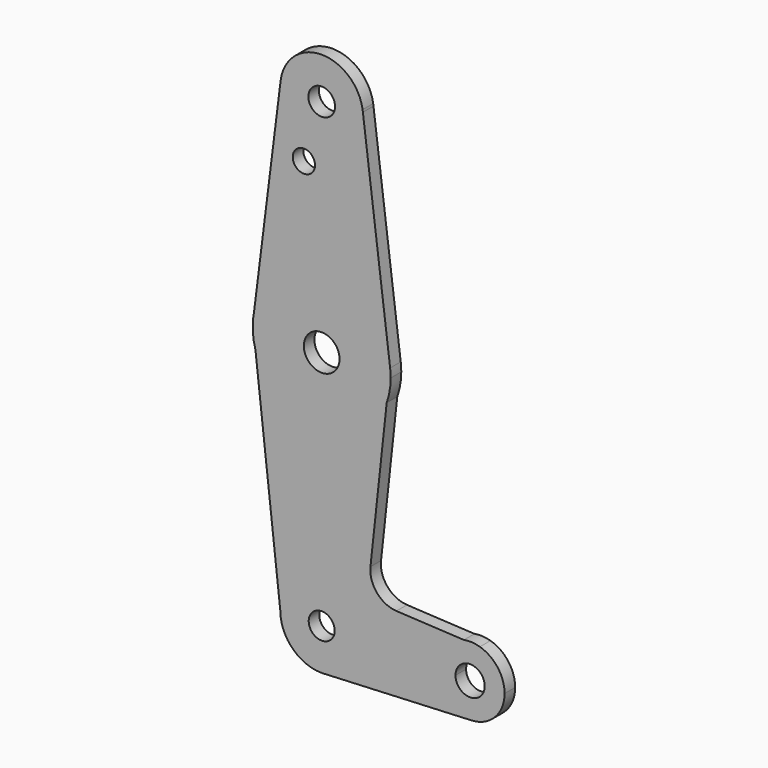
from build123d import *

# Parameters (mm, degrees)
F0_R     = 2.9857654251
F0_R_2   = 4.1099849919
F0_R_3   = 2.562679004
F0_R_4   = 3.0698593307
F1_DEPTH = 3.048


with BuildPart() as f1:
    # F0 (on Front) → F1 (new body)
    with BuildSketch(Plane.XZ):
        with BuildLine():
            ThreePointArc((0.8789084912, -9.4843631765), (7.0390776519, -6.4169315728), (9.525, 0))
            ThreePointArc((9.525, 0), (0, 9.525), (-9.525, 0))
            ThreePointArc((-9.525, 0), (-6.7351920908, -6.7351920908), (0, -9.525))
            Line((0, -9.525), (0.8789084912, -9.4843631765))
        make_face()
        Circle(F0_R, mode=Mode.SUBTRACT)
        with BuildLine():
            Line((26.2141472399, 0), (9.525, 0))
            ThreePointArc((9.525, 0), (7.0390776519, -6.4169315728), (0.8789084912, -9.4843631765))
            Line((0.8789084912, -9.4843631765), (34.5182503328, -7.9290294754))
            ThreePointArc((34.5182503328, -7.9290294754), (28.6701331151, -5.7408108443), (26.2141472399, 0))
        make_face()
        with BuildLine():
            ThreePointArc((-9.525, 0), (0, 9.525), (9.525, 0))
            Line((9.525, 0), (26.2141472399, 0))
            ThreePointArc((26.2141472399, 0), (28.0504698559, 5.0773556876), (32.7097795621, 7.8054419381))
            Line((32.7097795621, 7.8054419381), (17.2021943618, 8.620678039))
            ThreePointArc((17.2021943618, 8.620678039), (12.6997377229, 10.846417333), (11.2226010629, 15.6468442388))
            Line((11.2226010629, 15.6468442388), (14.9583679978, 50.0795296431))
            ThreePointArc((14.9583679978, 50.0795296431), (-0.4764040662, 39.5279613946), (-15.2503618955, 50.9864932041))
            Line((-15.2503618955, 50.9864932041), (-9.525, 0))
        make_face()
        with BuildLine():
            ThreePointArc((0, -9.525), (0.4399237114, -9.5148353705), (0.8789084912, -9.4843631765))
            Line((0.8789084912, -9.4843631765), (0, -9.525))
        make_face()
        with BuildLine():
            ThreePointArc((32.7097795621, 7.8054419381), (28.0504698559, 5.0773556876), (26.2141472399, 0))
            ThreePointArc((26.2141472399, 0), (28.6701331151, -5.7408108443), (34.5182503328, -7.9290294754))
            ThreePointArc((34.5182503328, -7.9290294754), (39.8924580842, -5.4815141248), (42.0891472399, 0))
            ThreePointArc((42.0891472399, 0), (40.5109606782, 4.75005672), (36.4039720983, 7.6112376774))
            Line((36.4039720983, 7.6112376774), (32.7097795621, 7.8054419381))
        make_face()
        with BuildLine():
            ThreePointArc((37.5149692495, 0), (34.1516472399, -3.3633220096), (30.7883252304, 0))
            ThreePointArc((30.7883252304, 0), (34.1516472399, 3.3633220096), (37.5149692495, 0))
        make_face(mode=Mode.SUBTRACT)
        with BuildLine():
            Line((-15.8484830578, 56.3129862946), (-15.2503618955, 50.9864932041))
            ThreePointArc((-15.2503618955, 50.9864932041), (-0.4764040662, 39.5279613946), (14.9583679978, 50.0795296431))
            Line((14.9583679978, 50.0795296431), (15.7504683605, 57.3803444616))
            ThreePointArc((15.7504683605, 57.3803444616), (0.5121804883, 71.2625469344), (-15.5896896566, 58.3920092375))
            ThreePointArc((-15.5896896566, 58.3920092375), (-15.7534205811, 57.3567716345), (-15.8484830578, 56.3129862946))
        make_face()
        with Locations((0, 55.3958114117)):
            Circle(F0_R_2, mode=Mode.SUBTRACT)
        with BuildLine():
            ThreePointArc((-15.8484830578, 56.3129862946), (-15.7758493121, 53.6243138866), (-15.2503618955, 50.9864932041))
            Line((-15.2503618955, 50.9864932041), (-15.8484830578, 56.3129862946))
        make_face()
        with BuildLine():
            ThreePointArc((36.4039720983, 7.6112376774), (34.5683474128, 7.9265545615), (32.7097795621, 7.8054419381))
            Line((32.7097795621, 7.8054419381), (36.4039720983, 7.6112376774))
        make_face()
        with BuildLine():
            Line((15.7504683605, 57.3803444616), (14.9583679978, 50.0795296431))
            ThreePointArc((14.9583679978, 50.0795296431), (15.6441637195, 52.6984485296), (15.875, 55.3958114117))
            ThreePointArc((15.875, 55.3958114117), (15.8438365023, 56.3900296417), (15.7504683605, 57.3803444616))
        make_face()
        with BuildLine():
            Line((-9.4511589715, 107.4033378583), (-15.5896896566, 58.3920092375))
            ThreePointArc((-15.5896896566, 58.3920092375), (0.5121804883, 71.2625469344), (15.7504683605, 57.3803444616))
            Line((15.7504683605, 57.3803444616), (9.4790140139, 107.1544428399))
            ThreePointArc((9.4790140139, 107.1544428399), (9.5134965571, 106.6875900341), (9.525, 106.2196068518))
            ThreePointArc((9.525, 106.2196068518), (-0.5930159343, 96.7130850325), (-9.4511589715, 107.4033378583))
        make_face()
        with Locations((-4.0977103636, 92.8361788392)):
            Circle(F0_R_3, mode=Mode.SUBTRACT)
        with BuildLine():
            ThreePointArc((9.4146417701, 107.6653403477), (-0.1322675418, 115.7436884505), (-9.4511589715, 107.4033378583))
            ThreePointArc((-9.4511589715, 107.4033378583), (-0.5930159343, 96.7130850325), (9.525, 106.2196068518))
            ThreePointArc((9.525, 106.2196068518), (9.5134965571, 106.6875900341), (9.4790140139, 107.1544428399))
            Line((9.4790140139, 107.1544428399), (9.4146417701, 107.6653403477))
        make_face()
        with Locations((0, 106.2196068518)):
            Circle(F0_R_4, mode=Mode.SUBTRACT)
        with BuildLine():
            Line((9.4146417701, 107.6653403477), (9.4790140139, 107.1544428399))
            ThreePointArc((9.4790140139, 107.1544428399), (9.4502810163, 107.4103266818), (9.4146417701, 107.6653403477))
        make_face()
    extrude(amount=F1_DEPTH)


solid = f1.part
